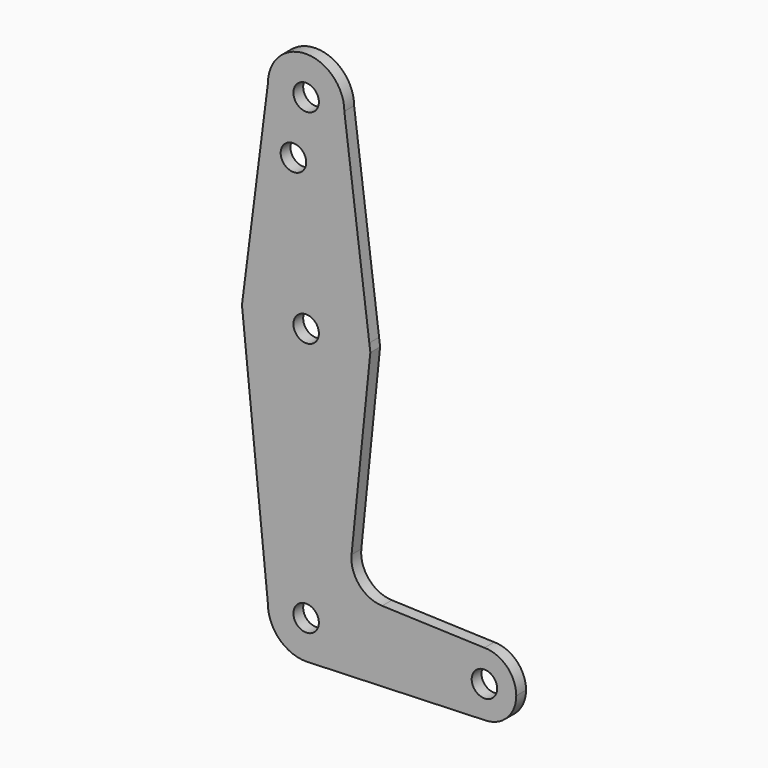
from build123d import *

# Parameters (mm, degrees)
F0_R     = 3.175
F1_DEPTH = 3.048


with BuildPart() as f1:
    # F0 (on Front) → F1 (new body)
    with BuildSketch(Plane.XZ):
        with BuildLine():
            ThreePointArc((-9.525, 50.8), (0, 41.275), (9.525, 50.8))
            ThreePointArc((9.525, 50.8), (0, 60.325), (-9.525, 50.8))
        make_face()
        with Locations((0, 50.8)):
            Circle(F0_R, mode=Mode.SUBTRACT)
        with BuildLine():
            ThreePointArc((-15.747457, 2.00829), (0, 15.875), (15.747457, 2.008289))
            Line((15.747457, 2.008289), (9.525, 50.8))
            ThreePointArc((9.525, 50.8), (0, 41.275), (-9.525, 50.8))
            Line((-9.525, 50.8), (-15.747457, 2.00829))
        make_face()
        with Locations((-3.175, 36.5252)):
            Circle(F0_R, mode=Mode.SUBTRACT)
        with BuildLine():
            ThreePointArc((-15.747457, 2.00829), (-1.006168, -15.843082), (15.875, 0))
            ThreePointArc((15.875, 0), (15.843082, 1.006168), (15.747457, 2.008289))
            ThreePointArc((15.747457, 2.008289), (0, 15.875), (-15.747457, 2.00829))
        make_face()
        Circle(F0_R, mode=Mode.SUBTRACT)
        with BuildLine():
            ThreePointArc((15.747457, 2.008289), (15.843082, 1.006168), (15.875, 0))
            ThreePointArc((15.875, 0), (-1.006168, -15.843082), (-15.747457, 2.00829))
            Line((-15.747457, 2.00829), (-16.003576, 0))
            Line((-16.003576, 0), (-9.525, -63.5))
            ThreePointArc((-9.525, -63.5), (0, -53.975), (9.525, -63.5))
            ThreePointArc((9.525, -63.5), (6.97129, -69.990511), (0.67949, -73.000732))
            Line((0.67949, -73.000732), (44.45, -71.4375))
            ThreePointArc((44.45, -71.4375), (36.5125, -63.5), (44.45, -55.5625))
            Line((44.45, -55.5625), (18.946068, -54.651645))
            ThreePointArc((18.946068, -54.651645), (13.235613, -51.929071), (11.32068, -45.899582))
            Line((11.32068, -45.899582), (16.003576, 0))
            Line((16.003576, 0), (15.747457, 2.008289))
        make_face()
        with BuildLine():
            ThreePointArc((9.525, -63.5), (0, -53.975), (-9.525, -63.5))
            ThreePointArc((-9.525, -63.5), (-6.735192, -70.235192), (0, -73.025))
            Line((0, -73.025), (0.67949, -73.000732))
            ThreePointArc((0.67949, -73.000732), (6.97129, -69.990511), (9.525, -63.5))
        make_face()
        with Locations((0, -63.5)):
            Circle(F0_R, mode=Mode.SUBTRACT)
        with BuildLine():
            ThreePointArc((52.3875, -63.5), (50.06266, -57.88734), (44.45, -55.5625))
            ThreePointArc((44.45, -55.5625), (36.5125, -63.5), (44.45, -71.4375))
            ThreePointArc((44.45, -71.4375), (50.06266, -69.11266), (52.3875, -63.5))
        make_face()
        with Locations((44.45, -63.5)):
            Circle(F0_R, mode=Mode.SUBTRACT)
    extrude(amount=F1_DEPTH)


solid = f1.part
